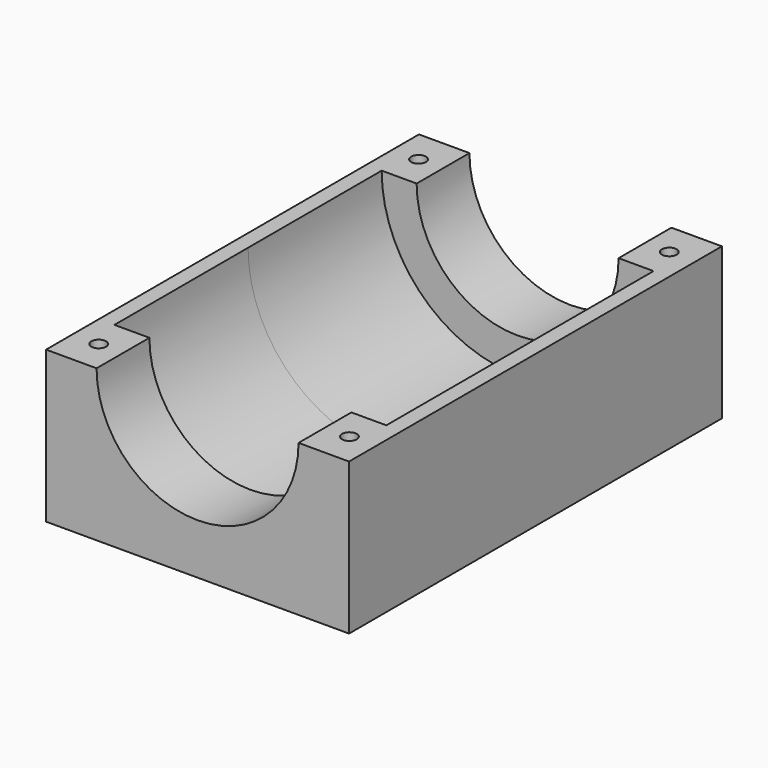
from build123d import *

# Parameters (mm, degrees)
F1_DEPTH      = 60
F1_DEPTH_BACK = 60
F2_R          = 35
F3_DEPTH      = 43
F3_DEPTH_BACK = 43
F4_R          = 1.9
F5_DEPTH      = 50
F5_DEPTH_BACK = 50


with BuildPart() as f1:
    # F0 (on Front) → F1 (new body, two sides)
    with BuildSketch(Plane.XZ) as f1_sk:
        with BuildLine():
            Line((-39, -19.5), (39, -19.5))
            Line((39, -19.5), (39, 19.5))
            Line((39, 19.5), (26, 19.5))
            ThreePointArc((26, 19.5), (0, -6.5), (-26, 19.5))
            Line((-26, 19.5), (-39, 19.5))
            Line((-39, 19.5), (-39, -19.5))
        make_face()
    extrude(amount=F1_DEPTH)
    extrude(f1_sk.sketch, amount=-F1_DEPTH_BACK)

    # F2 (on Front) → F3 (cut, two sides)
    with BuildSketch(Plane.XZ) as f3_sk:
        with Locations((0, 19.5)):
            Circle(F2_R)
    extrude(amount=-F3_DEPTH, mode=Mode.SUBTRACT)
    extrude(f3_sk.sketch, amount=F3_DEPTH_BACK, mode=Mode.SUBTRACT)

    # F4 (on Top) → F5 (cut, two sides)
    with BuildSketch(Plane.XY) as f5_sk:
        with Locations((-32.2727300227, 51.4772757888)):
            Circle(F4_R)
        with Locations((32.2727300227, 51.4772757888)):
            Circle(F4_R)
        with Locations((32.2727300227, -51.4772757888)):
            Circle(F4_R)
        with Locations((-32.2727300227, -51.4772757888)):
            Circle(F4_R)
    extrude(amount=-F5_DEPTH, mode=Mode.SUBTRACT)
    extrude(f5_sk.sketch, amount=F5_DEPTH_BACK, mode=Mode.SUBTRACT)


solid = f1.part
